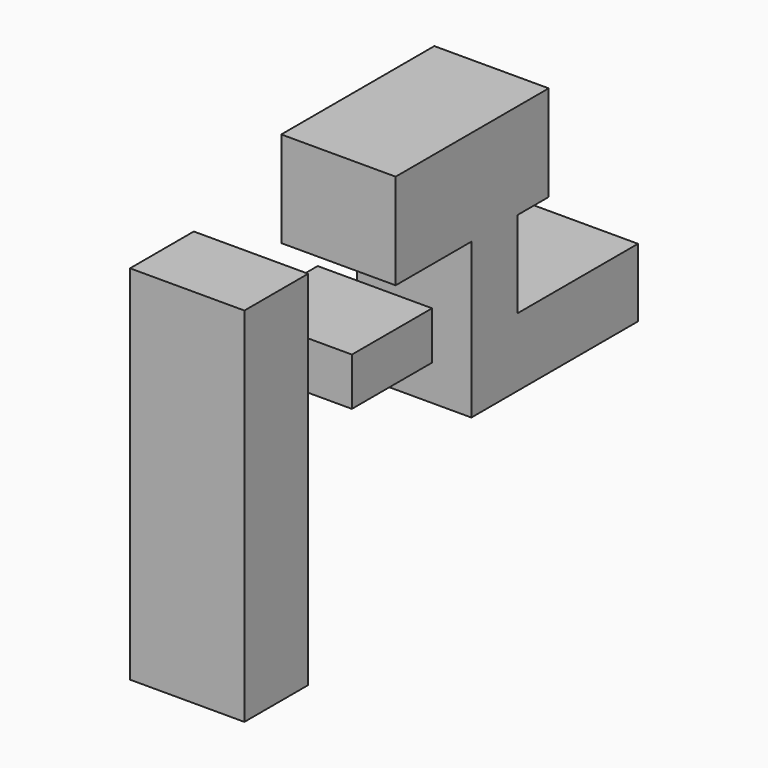
from build123d import *

# Parameters (mm, degrees)
F0_W     = 17.426469
F0_H     = 79.165976
F0_W_2   = 21.907569
F0_H_2   = 10.455888
F0_W_3   = 32.861362
F0_H_3   = 14.936974
F1_DEPTH = 25


with BuildPart() as f1:
    # F0 (on Right) → F1 (new body)
    with BuildSketch(Plane.YZ):
        with Locations((-53.307395, 11.835968)):
            Rectangle(F0_W, F0_H)
        with Locations((-21.690796, 25.777146)):
            Rectangle(F0_W_2, F0_H_2)
        Polygon((-20.694995, 60.381141), (-20.694995, 39.469376), (0, 39.469376), (12.664245, 39.469376), (21.12853, 39.469376), (21.12853, 60.381141), align=None)
        Polygon((12.664245, 39.469376), (0, 39.469376), (0, 5.612228), (12.664245, 5.612228), (12.664245, 20.549202), align=None)
        with Locations((29.094926, 13.080715)):
            Rectangle(F0_W_3, F0_H_3)
    extrude(amount=F1_DEPTH)


solid = f1.part
